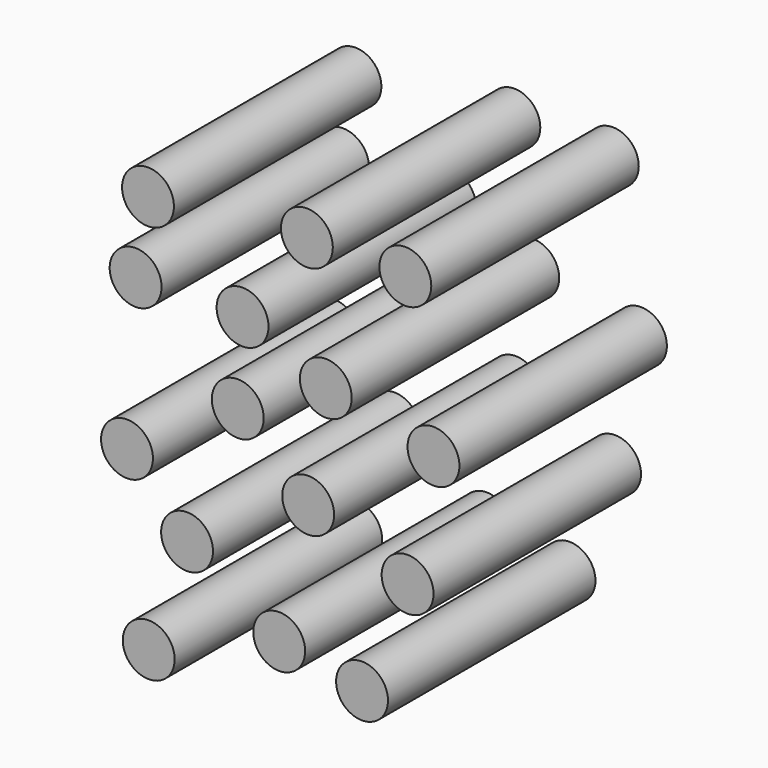
from build123d import *

# Parameters (mm, degrees)
F0_R      = 5.08
F1_DEPTH  = 50.8
F2_R      = 5.08
F3_DEPTH  = 50.8
F4_R      = 5.08
F5_DEPTH  = 50.8
F6_R      = 5.08
F7_DEPTH  = 50.8
F8_R      = 5.08
F9_DEPTH  = 50.8
F10_R     = 5.08
F11_DEPTH = 50.8


with BuildPart() as f1:
    # F0 (on Front) → F1 (new body)
    with BuildSketch(Plane.XZ):
        with Locations((-62.919557, 47.643188)):
            Circle(F0_R)
    extrude(amount=F1_DEPTH)


with BuildPart() as f3:
    # F2 (on Front) → F3 (new body)
    with BuildSketch(Plane.XZ):
        with Locations((-31.793948, 50.698463)):
            Circle(F2_R)
    extrude(amount=F3_DEPTH)


with BuildPart() as f5:
    # F4 (on Front) → F5 (new body)
    with BuildSketch(Plane.XZ):
        with Locations((-12.50753, 50.316554)):
            Circle(F4_R)
    extrude(amount=F5_DEPTH)


with BuildPart() as f7:
    # F6 (on Front) → F7 (new body)
    with BuildSketch(Plane.XZ):
        with Locations((-65.341808, 32.939676)):
            Circle(F6_R)
    extrude(amount=F7_DEPTH)


with BuildPart() as f9:
    # F8 (on Front) → F9 (new body)
    with BuildSketch(Plane.XZ):
        with Locations((-44.396956, 32.939676)):
            Circle(F8_R)
    extrude(amount=F9_DEPTH)


with BuildPart() as f11:
    # F10 (on Front) → F11 (new body)
    with BuildSketch(Plane.XZ):
        with Locations((-45.328859, 16.833536)):
            Circle(F10_R)
        with Locations((-28.089697, 25.960153)):
            Circle(F10_R)
        with Locations((-31.537529, 4.664715)):
            Circle(F10_R)
        with Locations((-67.029923, 2.839392)):
            Circle(F10_R)
        with Locations((-6.997073, 21.092623)):
            Circle(F10_R)
        with Locations((-12.067415, -2.636578)):
            Circle(F10_R)
        with Locations((-55.26673, -9.32943)):
            Circle(F10_R)
        with Locations((-37.216313, -20.686997)):
            Circle(F10_R)
        with Locations((-20.991217, -23.932016)):
            Circle(F10_R)
        with Locations((-62.770836, -30.422052)):
            Circle(F10_R)
    extrude(amount=F11_DEPTH)


solid = Compound([f1.part, f3.part, f5.part, f7.part, f9.part, f11.part])
